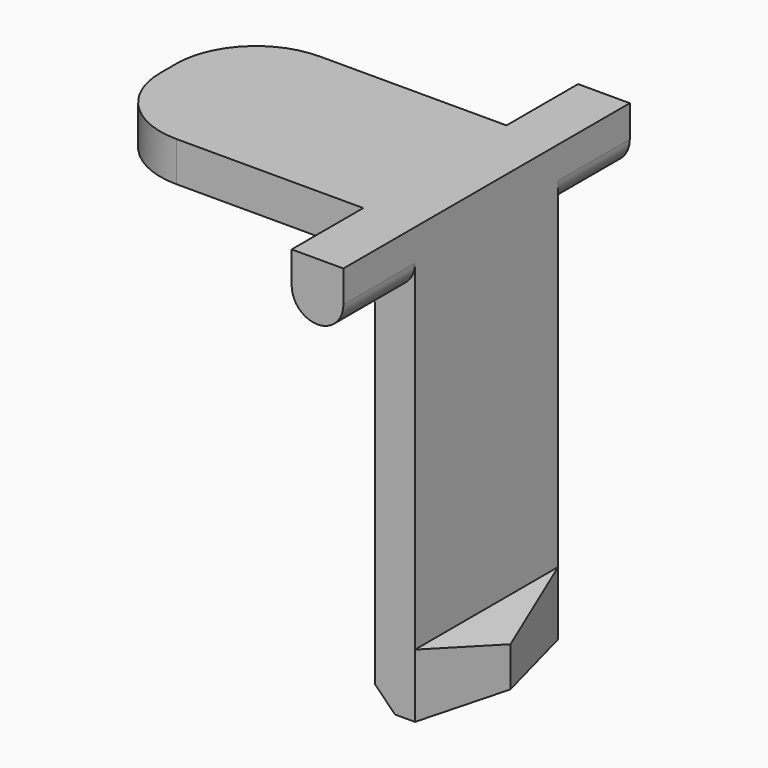
from build123d import *

# Parameters (mm, degrees)
PAD003_DEPTH         = 2.25
PAD004_DEPTH         = 4.5
POCKET013_DEPTH      = 33.508955
POCKET013_DEPTH_BACK = 43.758955
FILLET_R             = 2


with BuildPart() as part:
    # Sketch027 → Pad003 (new body, symmetric)
    with BuildSketch(Plane.XZ):
        Polygon((-61.55, 1.6), (-55.55, 1.6), (-54.55, 0.6), (-54.55, -7.85), (-54.05, -8.35), (-52.95, -8.35), (-52.95, -7.35), (-53.55, -6.75), (-53.55, 2.6), (-61.55, 2.6), align=None)
    extrude(amount=PAD003_DEPTH, both=True)

    # Sketch028 → Pad004 (join, symmetric)
    with BuildSketch(Plane.XZ):
        with BuildLine():
            ThreePointArc((-54.85, 1.8), (-54.2, 1.15), (-53.55, 1.8))
            Line((-53.55, 1.8), (-53.55, 2.6))
            Line((-53.55, 2.6), (-54.85, 2.6))
            Line((-54.85, 1.8), (-54.85, 2.6))
        make_face()
    extrude(amount=PAD004_DEPTH, both=True)

    # Sketch029 (on DatumPlane) → Pocket013 (cut, two sides)
    with BuildSketch(Plane.XY.offset(-8)) as pocket013_sk:
        Polygon((-52.95, 2.25), (-53.55, 2.25), (-52.95, 0), align=None)
    pocket013 = extrude(amount=-POCKET013_DEPTH, mode=Mode.SUBTRACT) + extrude(pocket013_sk.sketch, amount=POCKET013_DEPTH_BACK, mode=Mode.SUBTRACT)

    # Mirrored001: Pocket013 across XZ
    add(pocket013.mirror(Plane.XZ), mode=Mode.SUBTRACT)

    # Fillet
    fillet_edges = [part.edges().sort_by_distance(p)[0] for p in [
        (-61.55, 2.25, 2.1),
        (-61.55, -2.25, 2.1),
    ]]
    fillet(fillet_edges, radius=FILLET_R)


solid = part.part
